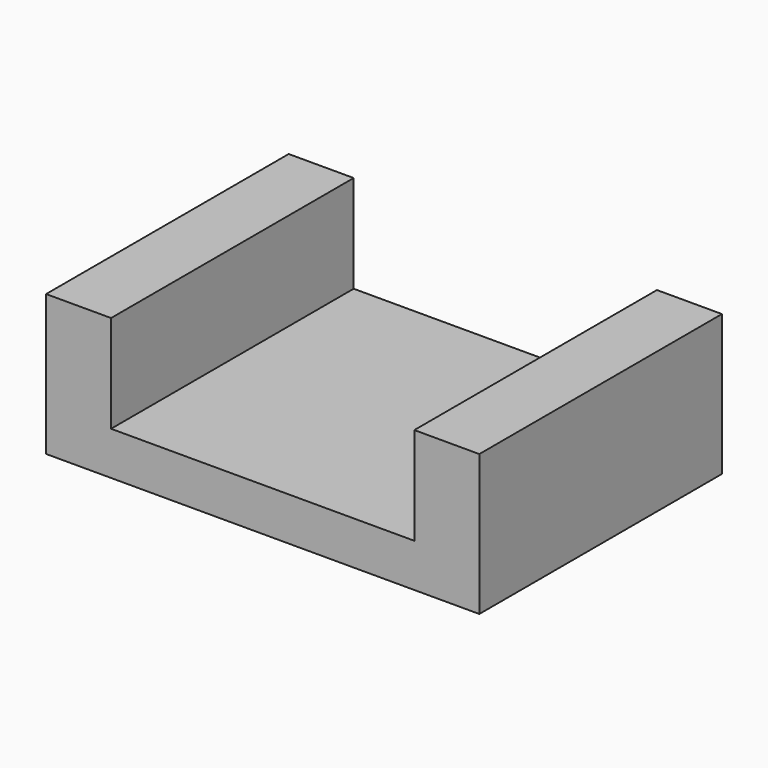
from build123d import *

# Parameters (mm, degrees)
BOX001_W     = 8
BOX001_H     = 5.6
BOX001_DEPTH = 0.8
BOX002_W     = 1.2
BOX002_H     = 5.6
BOX002_DEPTH = 2.6
BOX_W        = 1.2
BOX_H        = 5.6
BOX_DEPTH    = 2.6


with BuildPart() as cube001:
    # Box001 → Box001 (new body)
    with BuildSketch(Plane(origin=(-4, -2.8, 0), x_dir=(1, 0, 0), z_dir=(0, 0, 1))):
        with Locations((4, 2.8)):
            Rectangle(BOX001_W, BOX001_H)
    extrude(amount=BOX001_DEPTH)


with BuildPart() as cube002:
    # Box002 → Box002 (new body)
    with BuildSketch(Plane(origin=(2.8, -2.8, 0), x_dir=(1, 0, 0), z_dir=(0, 0, 1))):
        with Locations((0.6, 2.8)):
            Rectangle(BOX002_W, BOX002_H)
    extrude(amount=BOX002_DEPTH)


with BuildPart() as fusion:
    # Box → Box (new body)
    with BuildSketch(Plane(origin=(-4, -2.8, 0), x_dir=(1, 0, 0), z_dir=(0, 0, 1))):
        with Locations((0.6, 2.8)):
            Rectangle(BOX_W, BOX_H)
    extrude(amount=BOX_DEPTH)

    # Fusion: union Cube001, Cube002
    add(cube001.part)
    add(cube002.part)


solid = fusion.part
